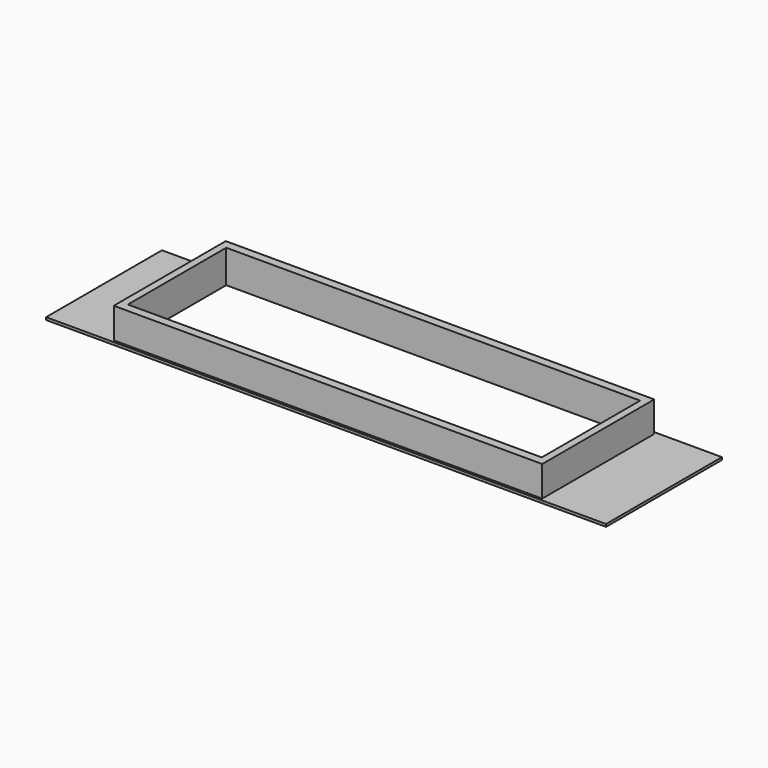
from build123d import *

# Parameters (mm, degrees)
F0_W     = 92
F0_H     = 23.8
F1_DEPTH = 0.42
F2_W     = 70.4
F2_H     = 23
F2_W_2   = 68
F2_H_2   = 20.2
F3_DEPTH = 5
F4_W     = 68
F4_H     = 20.2
F5_DEPTH = 25


with BuildPart() as f1:
    # F0 (on Top) → F1 (new body)
    with BuildSketch(Plane.XY):
        Rectangle(F0_W, F0_H)
    extrude(amount=F1_DEPTH)

    # F2 (on face) → F3 (join)
    with BuildSketch(Plane.XY.offset(0.42)):
        Rectangle(F2_W, F2_H)
        Rectangle(F2_W_2, F2_H_2, mode=Mode.SUBTRACT)
    extrude(amount=F3_DEPTH)

    # F4 (on face) → F5 (cut)
    with BuildSketch(Plane.XY.offset(0.42)):
        Rectangle(F4_W, F4_H)
    extrude(amount=-F5_DEPTH, mode=Mode.SUBTRACT)


solid = f1.part
